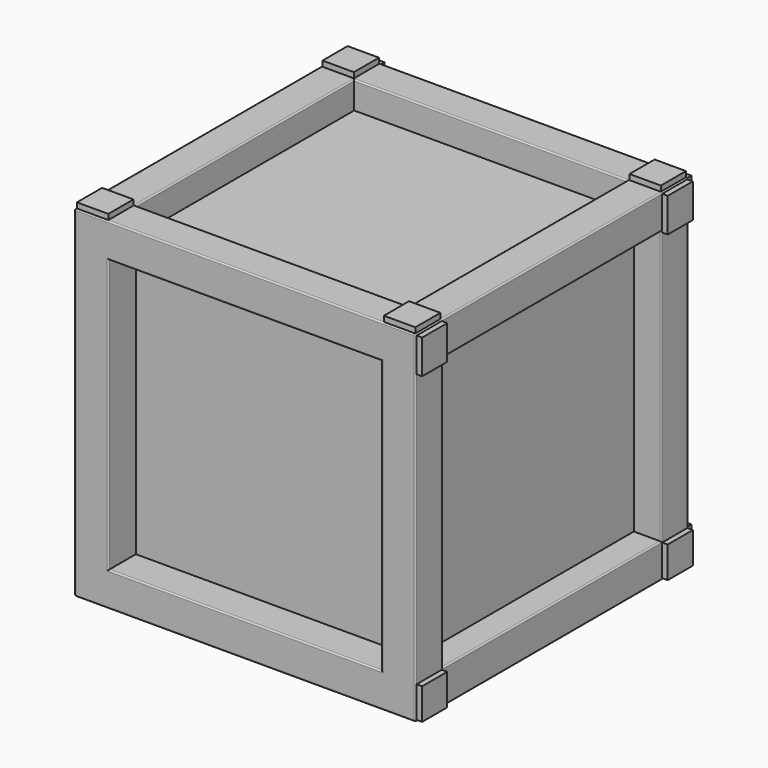
from build123d import *

# Parameters (mm, degrees)
F0_W      = 250
F0_H      = 250
F0_W_2    = 200
F0_H_2    = 200
F1_DEPTH  = 125
F2_W      = 200
F2_H      = 200
F3_DEPTH  = 100
F4_W      = 200
F4_H      = 200
F5_DEPTH  = 20
F6_W      = 200
F6_H      = 200
F7_DEPTH  = 20
F8_W      = 200
F8_H      = 200
F9_DEPTH  = 20
F10_W     = 200
F10_H     = 200
F11_DEPTH = 20
F12_R     = 1
F13_W     = 23
F13_H     = 23
F14_DEPTH = 4
F15_W     = 23
F15_H     = 23
F16_DEPTH = 4
F17_W     = 23
F17_H     = 23
F18_DEPTH = 4


with BuildPart() as f1:
    # F0 (on Front) → F1 (new body, symmetric)
    with BuildSketch(Plane.XZ):
        with Locations((125, 125)):
            Rectangle(F0_W, F0_H)
        with Locations((125, 125)):
            Rectangle(F0_W_2, F0_H_2, mode=Mode.SUBTRACT)
    extrude(amount=F1_DEPTH, both=True)

    # F2 (on Front) → F3 (join, symmetric)
    with BuildSketch(Plane.XZ):
        with Locations((125, 125)):
            Rectangle(F2_W, F2_H)
    extrude(amount=F3_DEPTH, both=True)

    # F4 (on face) → F5 (cut)
    with BuildSketch(Plane(origin=(0, 0, 0), x_dir=(0, -1, 0), z_dir=(-1, 0, 0))):
        with Locations((0, 125)):
            Rectangle(F4_W, F4_H)
    extrude(amount=-F5_DEPTH, mode=Mode.SUBTRACT)

    # F6 (on face) → F7 (cut)
    with BuildSketch(Plane.YZ.offset(250)):
        with Locations((0, 125)):
            Rectangle(F6_W, F6_H)
    extrude(amount=-F7_DEPTH, mode=Mode.SUBTRACT)

    # F8 (on Top) → F9 (cut)
    with BuildSketch(Plane.XY):
        with Locations((125, 0)):
            Rectangle(F8_W, F8_H)
    extrude(amount=F9_DEPTH, mode=Mode.SUBTRACT)

    # F10 (on face) → F11 (cut)
    with BuildSketch(Plane.XY.offset(250)):
        with Locations((125, 0)):
            Rectangle(F10_W, F10_H)
    extrude(amount=-F11_DEPTH, mode=Mode.SUBTRACT)

    # F12
    f12_edges = [f1.edges().sort_by_distance(p)[0] for p in [
        (25, 0, 0),
        (125, -100, 0),
        (125, 100, 0),
        (225, 0, 0),
        (250, 0, 0),
        (250, 0, 25),
        (250, 100, 125),
        (250, 0, 225),
        (250, -100, 125),
        (250, -125, 125),
        (250, 0, 250),
        (125, 125, 250),
        (250, 125, 125),
        (225, 125, 125),
        (125, 125, 225),
        (25, 125, 125),
        (125, 125, 25),
        (0, 100, 125),
        (0, 0, 25),
        (0, 125, 125),
        (0, 0, 0),
        (0, -125, 125),
        (0, 0, 250),
        (0, 0, 225),
        (0, -100, 125),
        (125, -125, 250),
        (125, -125, 0),
        (25, -125, 125),
        (125, -125, 225),
        (225, -125, 125),
        (125, -125, 25),
        (125, 100, 250),
        (25, 0, 250),
        (125, -100, 250),
        (225, 0, 250),
    ]]
    fillet(f12_edges, radius=F12_R)

    # F13 (on face) → F14 (join)
    with BuildSketch(Plane.XY.offset(250)):
        with Locations((237.5, 112.5)):
            Rectangle(F13_W, F13_H)
        with Locations((237.5, -112.5)):
            Rectangle(F13_W, F13_H)
        with Locations((12.5, -112.5)):
            Rectangle(F13_W, F13_H)
        with Locations((12.5, 112.5)):
            Rectangle(F13_W, F13_H)
    extrude(amount=F14_DEPTH)

    # F15 (on face) → F16 (join)
    with BuildSketch(Plane.YZ.offset(250)):
        Polygon((124, 224), (124, 249), (101, 249), (101, 226), (101, 224), align=None)
        Polygon((-101, 226), (-101, 249), (-124, 249), (-124, 224), (-101, 224), align=None)
        with Locations((-112.5, 12.5)):
            Rectangle(F15_W, F15_H)
        with Locations((112.5, 12.5)):
            Rectangle(F15_W, F15_H)
    extrude(amount=F16_DEPTH)

    # F17 (on face) → F18 (join)
    with BuildSketch(Plane(origin=(0, 125, 0), x_dir=(-1, 0, 0), z_dir=(0, 1, 0))):
        with Locations((-12.5, 12.5)):
            Rectangle(F17_W, F17_H)
        Polygon((-224, 1), (-224, 24), (-226, 24), (-249, 24), (-249, 1), align=None)
        Polygon((-224, 226), (-224, 249), (-249, 249), (-249, 226), (-226, 226), align=None)
        with Locations((-12.5, 237.5)):
            Rectangle(F17_W, F17_H)
    extrude(amount=F18_DEPTH)


solid = f1.part
